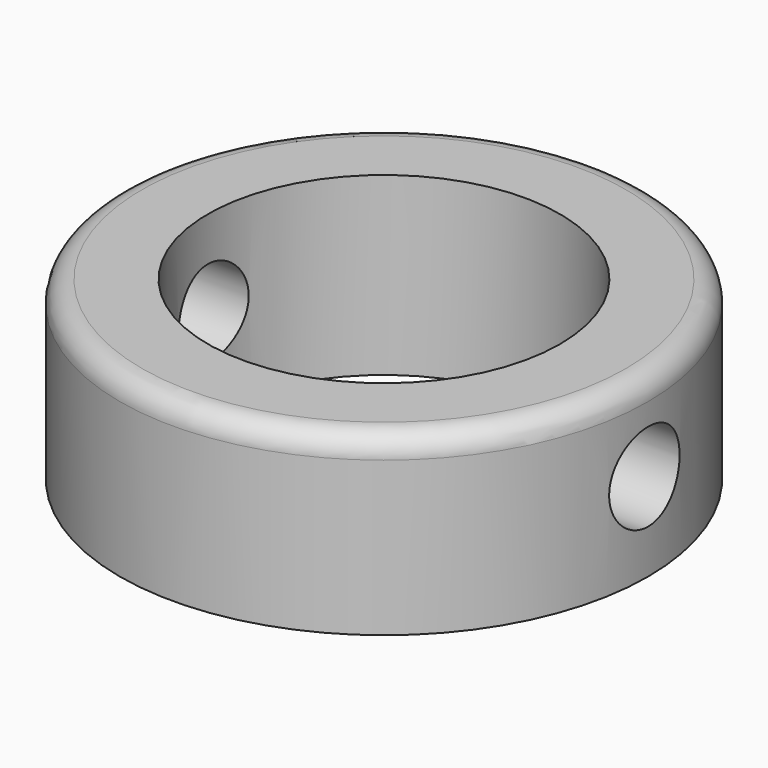
from build123d import *

# Parameters (mm, degrees)
F0_R     = 12
F0_R_2   = 8
F1_DEPTH = 8
F2_R     = 1
F3_R     = 2
F4_DEPTH = 30


with BuildPart() as f1:
    # F0 (on Top) → F1 (new body)
    with BuildSketch(Plane.XY):
        Circle(F0_R)
        Circle(F0_R_2, mode=Mode.SUBTRACT)
    extrude(amount=F1_DEPTH)

    # F2
    f2_edges = [f1.edges().sort_by_distance(p)[0] for p in [
        (-12, 0, 8),
    ]]
    fillet(f2_edges, radius=F2_R)

    # F3 (on Right) → F4 (cut, symmetric)
    with BuildSketch(Plane.YZ):
        with Locations((0, 4)):
            Circle(F3_R)
    extrude(amount=F4_DEPTH, both=True, mode=Mode.SUBTRACT)


solid = f1.part
